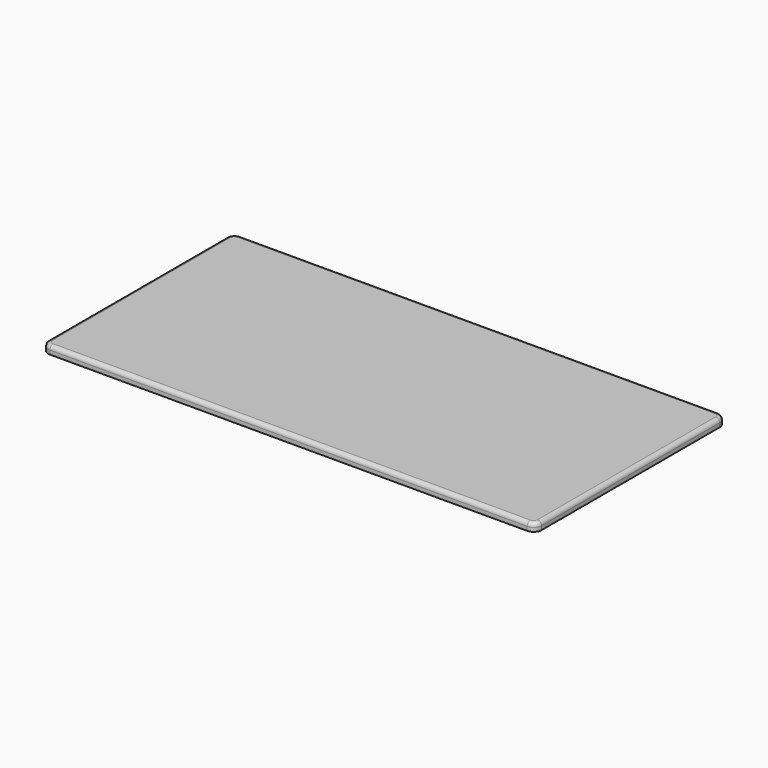
from build123d import *

# Parameters (mm, degrees)
EXTRUDE_DEPTH = 10
FILLET_R      = 5


with BuildPart() as part:
    # Sketch → Extrude (new body)
    with BuildSketch(Plane.XY):
        with BuildLine():
            Line((-300, 150), (300, 150))
            ThreePointArc((310, 140), (307.071068, 147.071068), (300, 150))
            Line((310, 140), (310, -140))
            ThreePointArc((300, -150), (307.071068, -147.071068), (310, -140))
            Line((300, -150), (-300, -150))
            ThreePointArc((-310, -140), (-307.071068, -147.071068), (-300, -150))
            Line((-310, -140), (-310, 140))
            ThreePointArc((-300, 150), (-307.071068, 147.071068), (-310, 140))
        make_face()
    extrude(amount=EXTRUDE_DEPTH)

    # Fillet
    fillet_edges = [part.edges().sort_by_distance(p)[0] for p in [
        (-310, 0, 10),
        (-307.071068, 147.071068, 10),
        (0, 150, 10),
        (307.071068, 147.071068, 10),
        (310, 0, 10),
        (307.071068, -147.071068, 10),
        (0, -150, 10),
        (-307.071068, -147.071068, 10),
    ]]
    fillet(fillet_edges, radius=FILLET_R)


solid = part.part
